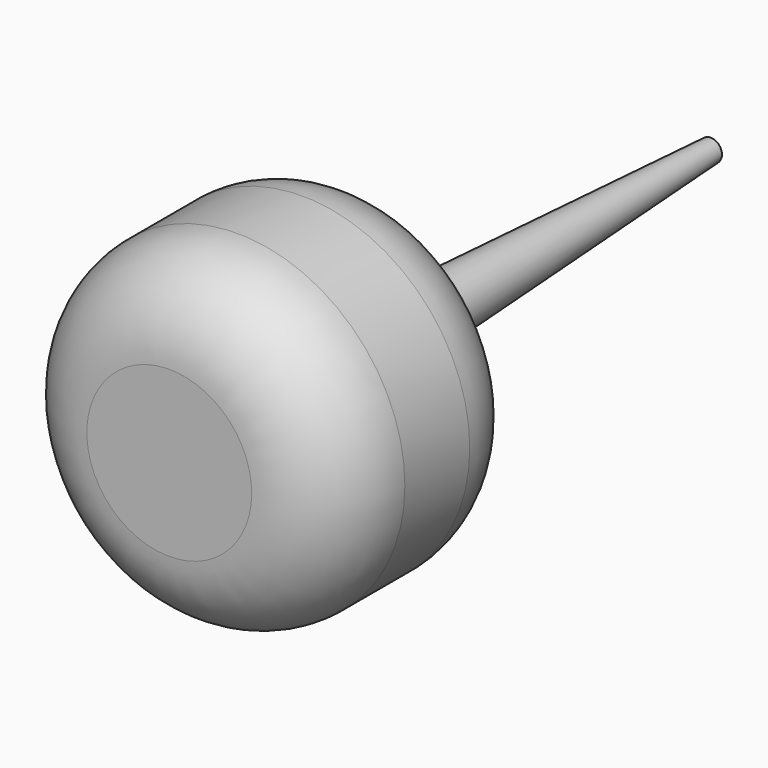
from build123d import *

# Parameters (mm, degrees)
F0_R     = 10
F1_DEPTH = 15
F2_R     = 5.08
F3_R     = 2
F4_DEPTH = 25.4
F4_TAPER = 3


with BuildPart() as f1:
    # F0 (on Front) → F1 (new body)
    with BuildSketch(Plane.XZ):
        Circle(F0_R)
    extrude(amount=-F1_DEPTH)

    # F2
    f2_edges = [f1.edges().sort_by_distance(p)[0] for p in [
        (-10, 0, 0),
        (-10, 15, 0),
    ]]
    fillet(f2_edges, radius=F2_R)

    # F3 (on face) → F4 (join)
    with BuildSketch(Plane(origin=(0, 15, 0), x_dir=(-1, 0, 0), z_dir=(0, 1, 0))):
        Circle(F3_R)
    extrude(amount=F4_DEPTH, taper=F4_TAPER)


solid = f1.part
